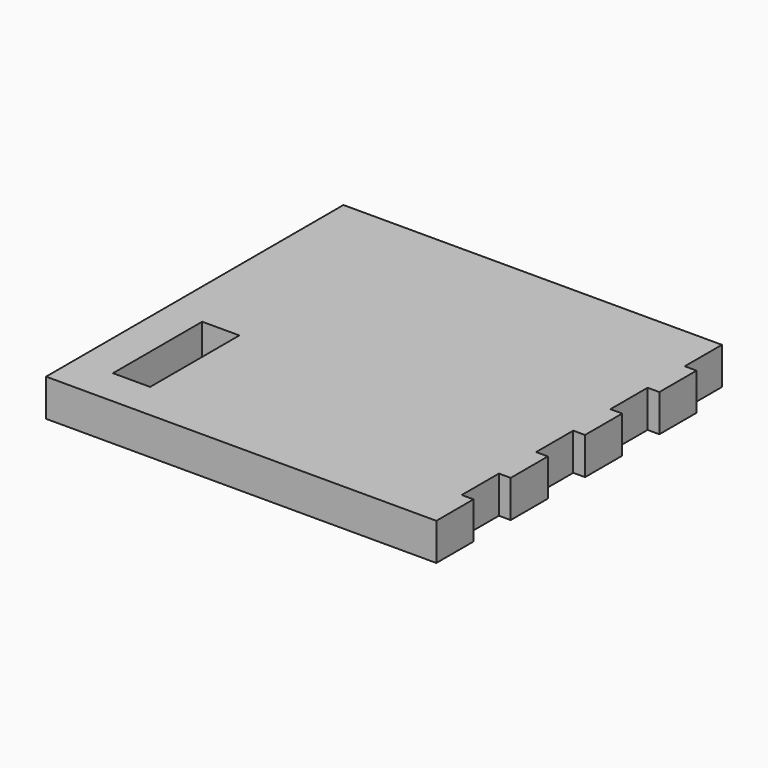
from build123d import *

# Parameters (mm, degrees)
F0_W     = 120
F0_H     = 100
F1_DEPTH = 10
F2_W     = 10
F2_H     = 30
F3_DEPTH = 10.001
F5_DEPTH = 25


with BuildPart() as f1:
    # F0 (on Top) → F1 (new body)
    with BuildSketch(Plane.XY):
        Rectangle(F0_W, F0_H)
    extrude(amount=F1_DEPTH)

    # F2 (on face) → F3 (cut, through all)
    with BuildSketch(Plane.XY.offset(10)):
        with Locations((-45, -25)):
            Rectangle(F2_W, F2_H)
    extrude(amount=-F3_DEPTH, mode=Mode.SUBTRACT)

    # F4 (on face) → F5 (cut)
    with BuildSketch(Plane.XY.offset(10)):
        Polygon((45, -50), (60, -50), (60, 50), (41.829597, 50), (41.829597, 37.5), (45, 37.5), (45, 25), (41.829597, 25), (41.829597, 12.5), (45, 12.5), (45, 0), (41.829597, 0), (41.829597, -12.5), (45, -12.5), (45, -25), (41.829597, -25), (41.829597, -37.5), (45, -37.5), align=None)
    extrude(amount=-F5_DEPTH, mode=Mode.SUBTRACT)


solid = f1.part
